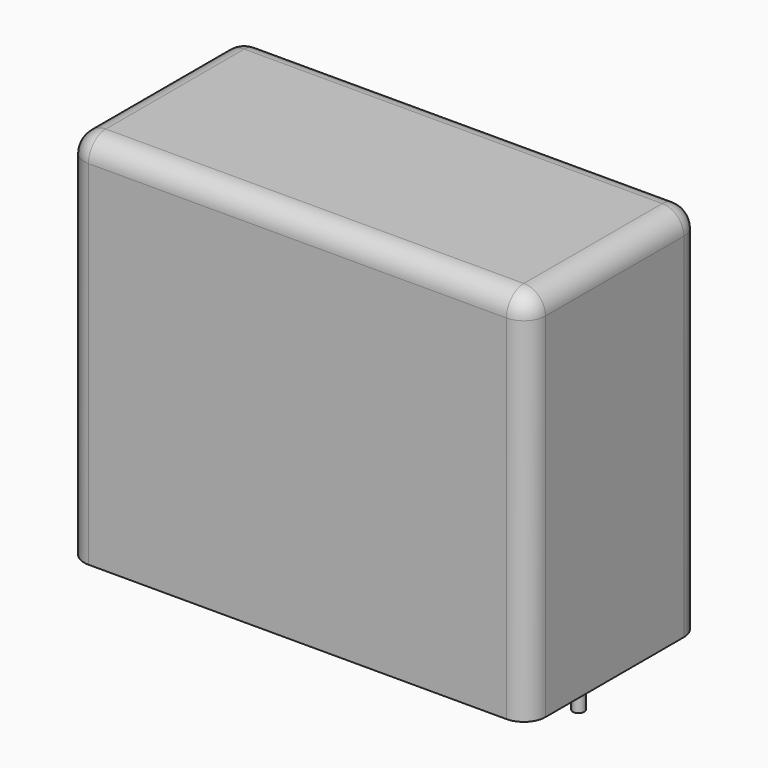
from build123d import *

# Parameters (mm, degrees)
SKETCH_W     = 32
SKETCH_H     = 15
PAD_DEPTH    = 26
FILLET_R     = 1.5
SKETCH001_R  = 0.4
PAD001_DEPTH = 3.2


with BuildPart() as fillet_body:
    # Sketch → Pad (new body)
    with BuildSketch(Plane.XY.offset(0.1)):
        with Locations((13.5, 0)):
            Rectangle(SKETCH_W, SKETCH_H)
    extrude(amount=PAD_DEPTH)

    # Fillet
    fillet_edges = [fillet_body.edges().sort_by_distance(p)[0] for p in [
        (-2.5, 0, 26.1),
        (-2.5, -7.5, 13.1),
        (13.5, -7.5, 26.1),
        (29.5, -7.5, 13.1),
        (29.5, 0, 26.1),
        (29.5, 7.5, 13.1),
        (13.5, 7.5, 26.1),
        (-2.5, 7.5, 13.1),
    ]]
    fillet(fillet_edges, radius=FILLET_R)


with BuildPart() as pad001:
    # Sketch001 → Pad001 (new body)
    with BuildSketch(Plane.XY.offset(0.5)):
        Circle(SKETCH001_R)
        with Locations((27, 0)):
            Circle(SKETCH001_R)
    extrude(amount=-PAD001_DEPTH)


solid = Compound([fillet_body.part, pad001.part])
